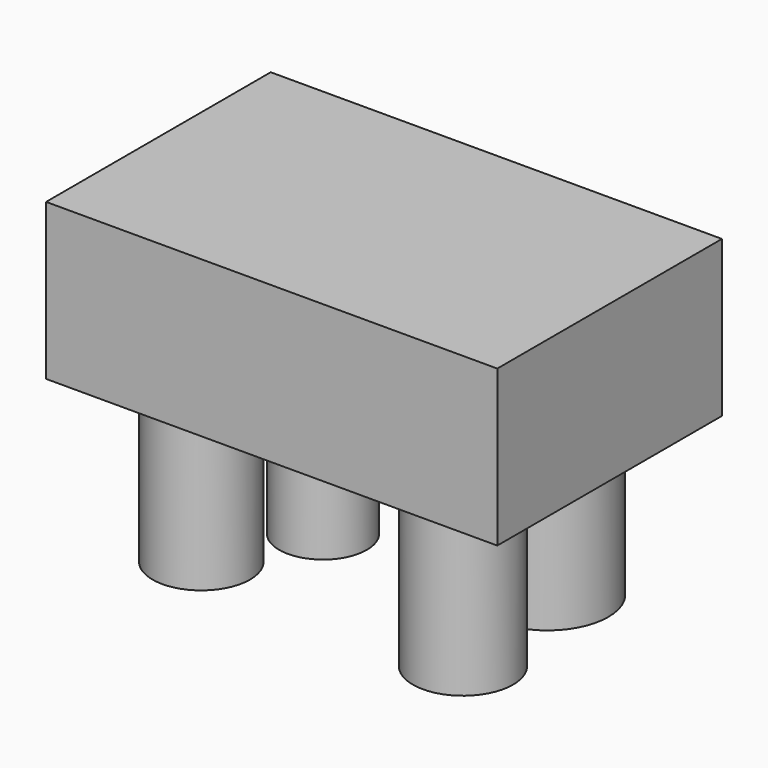
from build123d import *

# Parameters (mm, degrees)
F0_W          = 73.54109
F0_H          = 45.764141
F1_DEPTH      = 12.7
F1_DEPTH_BACK = 12.7
F2_R          = 8.170482
F3_DEPTH      = 25.4
F4_R          = 9.904199
F5_DEPTH      = 25.4
F6_R          = 7.936434
F7_DEPTH      = 25.4
F8_R          = 7.144879
F9_DEPTH      = 25.4


with BuildPart() as f1:
    # F0 (on Top) → F1 (new body, two sides)
    with BuildSketch(Plane.XY) as f1_sk:
        with Locations((0.04258, 2.530917)):
            Rectangle(F0_W, F0_H)
    extrude(amount=F1_DEPTH)
    extrude(f1_sk.sketch, amount=-F1_DEPTH_BACK)

    # F2 (on face) → F3 (join)
    with BuildSketch(Plane(origin=(0, 0, -12.7), x_dir=(1, 0, 0), z_dir=(0, 0, -1))):
        with Locations((23.680719, 10.929562)):
            Circle(F2_R)
    extrude(amount=F3_DEPTH)

    # F4 (on face) → F5 (join)
    with BuildSketch(Plane(origin=(0, 0, -12.7), x_dir=(1, 0, 0), z_dir=(0, 0, -1))):
        with Locations((19.757286, -11.209806)):
            Circle(F4_R)
    extrude(amount=F5_DEPTH)

    # F6 (on face) → F7 (join)
    with BuildSketch(Plane(origin=(0, 0, -12.7), x_dir=(1, 0, 0), z_dir=(0, 0, -1))):
        with Locations((-20.317776, 9.248092)):
            Circle(F6_R)
    extrude(amount=F7_DEPTH)

    # F8 (on face) → F9 (join)
    with BuildSketch(Plane(origin=(0, 0, -12.7), x_dir=(1, 0, 0), z_dir=(0, 0, -1))):
        with Locations((-13.031401, -6.44564)):
            Circle(F8_R)
    extrude(amount=F9_DEPTH)


solid = f1.part
